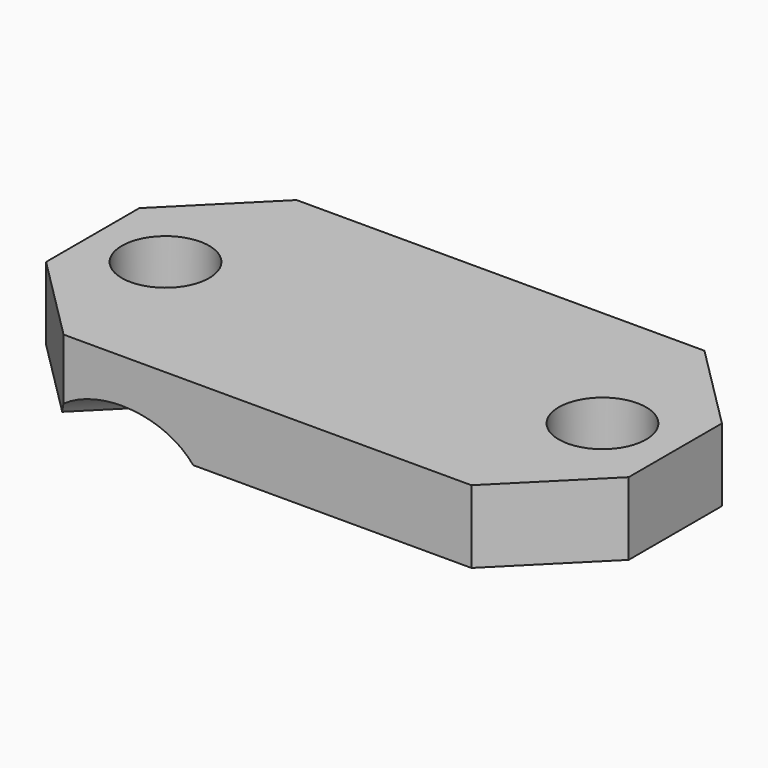
from build123d import *

# Parameters (mm, degrees)
F1_DEPTH = 10
F3_D     = 6
F5_R     = 4
F6_DEPTH = 30
F7_SIZE  = 6


with BuildPart() as f1:
    # F0 (on Front) → F1 (new body, symmetric)
    with BuildSketch(Plane.XZ):
        with BuildLine():
            ThreePointArc((-3.4641016151, 2), (0, 4), (3.4641016151, 2))
            Line((3.4641016151, 2), (20, 2))
            Line((20, 2), (20, 7))
            Line((20, 7), (-20, 7))
            Line((-20, 7), (-20, 2))
            Line((-20, 2), (-3.4641016151, 2))
        make_face()
        with BuildLine():
            Line((-3.4641016151, 2), (3.4641016151, 2))
            ThreePointArc((3.4641016151, 2), (0, 4), (-3.4641016151, 2))
        make_face()
    extrude(amount=F1_DEPTH, both=True)

    # F3 (through all)
    with Locations(Plane.XY.offset(7)):
        with Locations((15, 0), (-15, 0)):
            Hole(F3_D / 2)

    # F5 (on face) → F6 (cut, symmetric)
    with BuildSketch(Plane(origin=(0, 0, 0), x_dir=(-0.7071067812, 0.7071067812, 0), z_dir=(0.7071067812, 0.7071067812, 0))):
        Circle(F5_R)
    extrude(amount=F6_DEPTH, both=True, mode=Mode.SUBTRACT)

    # F7
    f7_edges = [f1.edges().sort_by_distance(p)[0] for p in [
        (-20, -10, 4.5),
        (20, 10, 4.5),
        (20, -10, 4.5),
        (-20, 10, 4.5),
    ]]
    chamfer(f7_edges, length=F7_SIZE)


solid = f1.part
